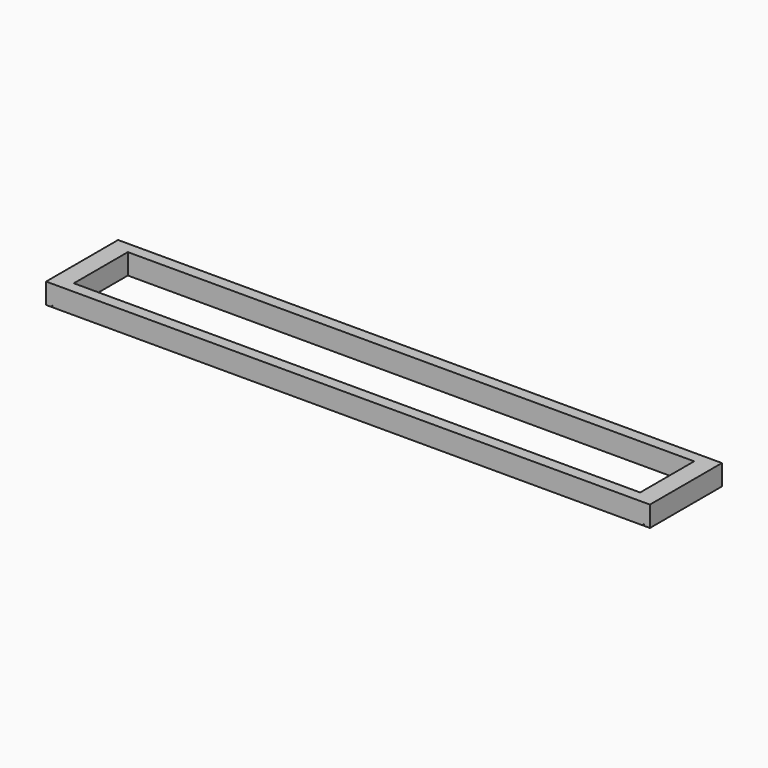
from build123d import *

# Parameters (mm, degrees)
F1_DEPTH = 2438.4
F2_W     = 15341.6
F2_H     = 1828.8
F3_DEPTH = 558.801


with BuildPart() as f1:
    # F0 (on Front) → F1 (new body)
    with BuildSketch(Plane.XZ):
        Polygon((8023.225, -279.4), (8178.8, -279.4), (8178.8, 279.4), (-8178.8, 279.4), (-8178.8, -279.4), (-8023.225, -279.4), (-8023.225, -240.03), (-8004.175, -240.03), (-8004.175, -279.4), (8004.175, -279.4), (8004.175, -240.03), (8023.225, -240.03), align=None)
    extrude(amount=F1_DEPTH)

    # F2 (on face) → F3 (cut, through all)
    with BuildSketch(Plane.XY.offset(279.4)):
        with Locations((0, -1219.2)):
            Rectangle(F2_W, F2_H)
    extrude(amount=-F3_DEPTH, mode=Mode.SUBTRACT)


solid = f1.part
